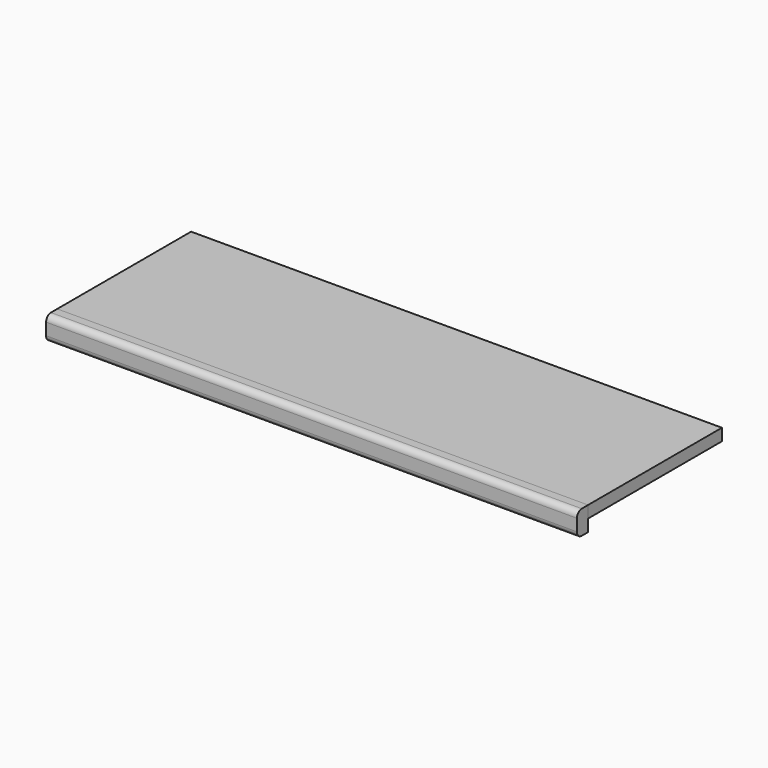
from build123d import *

# Parameters (mm, degrees)
F0_W     = 846.1375
F0_H     = 266.7
F1_DEPTH = 19.05
F2_W     = 846.1375
F2_H     = 19.05
F3_DEPTH = 22.225
F4_R     = 9.525
F5_W     = 738.1875
F5_H     = 25.4
F6_DEPTH = 12.7


with BuildPart() as f1:
    # F0 (on Top) → F1 (new body)
    with BuildSketch(Plane.XY):
        with Locations((423.06875, 133.35)):
            Rectangle(F0_W, F0_H)
    extrude(amount=F1_DEPTH)


with BuildPart() as f3:
    # F2 (on face) → F3 (new body)
    with BuildSketch(Plane.XZ):
        with Locations((423.06875, -9.525)):
            Rectangle(F2_W, F2_H)
        with Locations((423.06875, 9.525)):
            Rectangle(F2_W, F2_H)
    extrude(amount=F3_DEPTH)

    # F4
    f4_edges = [f3.edges().sort_by_distance(p)[0] for p in [
        (423.06875, -22.225, 19.05),
        (423.06875, -22.225, -19.05),
    ]]
    fillet(f4_edges, radius=F4_R)


with BuildPart() as f6:
    # F5 (on face) → F6 (new body)
    with BuildSketch(Plane(origin=(0, 0, 0), x_dir=(1, 0, 0), z_dir=(0, 0, -1))):
        with Locations((426.24375, -25.4)):
            Rectangle(F5_W, F5_H)
    extrude(amount=F6_DEPTH)


solid = Compound([f1.part, f3.part, f6.part])
